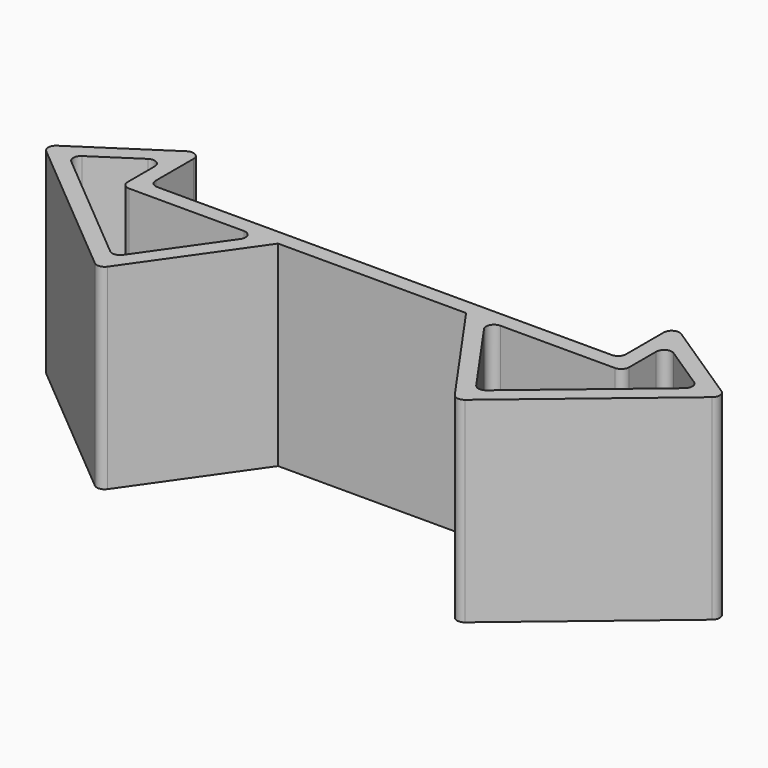
from build123d import *

# Parameters (mm, degrees)
F1_DEPTH = 25
F2_R     = 1


with BuildPart() as f1:
    # F0 (on Top) → F1 (new body)
    with BuildSketch(Plane.XY):
        Polygon((-22.782349, -17.398791), (-12, -2), (-14.441549, -2), (-23.168756, -14.463743), (-40.17401, -0.19464), (-32, 5.182131), (-32, 7.576028), (-43.517421, 0), align=None)
        Polygon((-32, 5.182131), (-30, 6.497709), (-30, 8.891606), (-32, 7.576028), align=None)
        Polygon((0, -2), (0, 0), (-30, 0), (-30, 6.497709), (-32, 5.182131), (-32, -2), (-14.441549, -2), (-12, -2), align=None)
        Polygon((14.441549, -2), (12, -2), (22.782349, -17.398791), (43.517421, 0), (32, 7.576028), (32, 5.182131), (40.17401, -0.19464), (23.168756, -14.463743), align=None)
        Polygon((30, 0), (0, 0), (0, -2), (12, -2), (14.441549, -2), (32, -2), (32, 5.182131), (30, 6.497709), align=None)
        Polygon((30, 8.891606), (30, 6.497709), (32, 5.182131), (32, 7.576028), align=None)
    extrude(amount=F1_DEPTH)

    # F2
    f2_edges = [f1.edges().sort_by_distance(p)[0] for p in [
        (-30, 8.891606, 12.5),
        (-43.517421, 0, 12.5),
        (-22.782349, -17.398791, 12.5),
        (-30, 0, 12.5),
        (-32, -2, 12.5),
        (30, 0, 12.5),
        (30, 8.891606, 12.5),
        (43.517421, 0, 12.5),
        (32, -2, 12.5),
        (22.782349, -17.398791, 12.5),
        (23.168756, -14.463743, 12.5),
        (14.441549, -2, 12.5),
        (32, 5.182131, 12.5),
        (40.17401, -0.19464, 12.5),
        (-40.17401, -0.19464, 12.5),
        (-32, 5.182131, 12.5),
        (-23.168756, -14.463743, 12.5),
        (-14.441549, -2, 12.5),
    ]]
    fillet(f2_edges, radius=F2_R)


solid = f1.part
